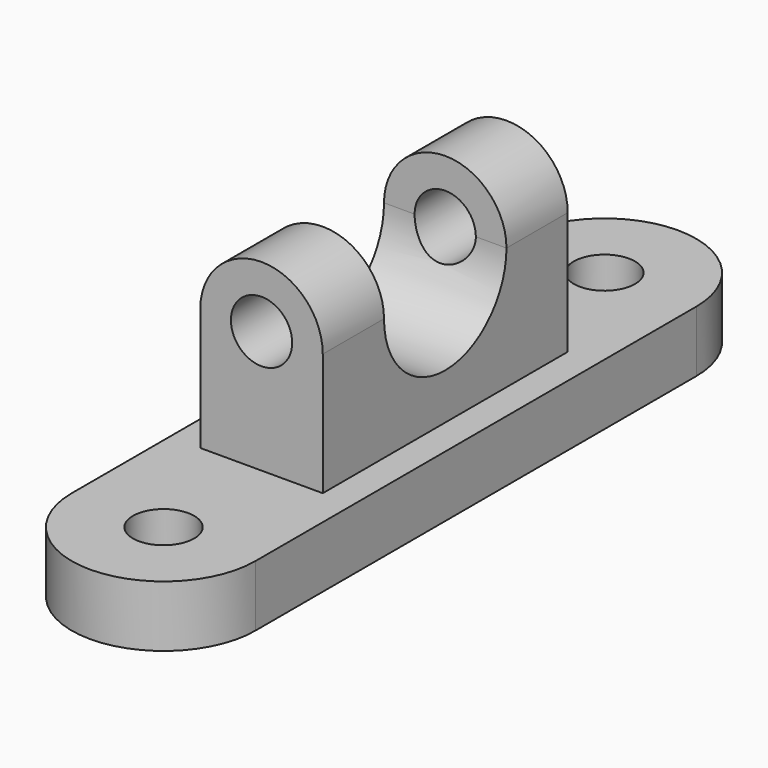
from build123d import *

# Parameters (mm, degrees)
F0_R     = 12.7
F1_DEPTH = 25.4
F2_W     = 50.8
F2_H     = 127
F3_DEPTH = 50.8
F5_DEPTH = 127
F6_R     = 12.7
F7_DEPTH = 127
F8_W     = 63.5
F8_H     = 63.5
F9_DEPTH = 76.2


with BuildPart() as f1:
    # F0 (on Top) → F1 (new body)
    with BuildSketch(Plane.XY):
        with BuildLine():
            ThreePointArc((-38.1, -114.3), (0, -152.4), (38.1, -114.3))
            Line((38.1, -114.3), (38.1, 114.3))
            ThreePointArc((38.1, 114.3), (0, 152.4), (-38.1, 114.3))
            Line((-38.1, 114.3), (-38.1, -114.3))
        make_face()
        with Locations((0, -114.3)):
            Circle(F0_R, mode=Mode.SUBTRACT)
        with Locations((0, 114.3)):
            Circle(F0_R, mode=Mode.SUBTRACT)
    extrude(amount=F1_DEPTH)

    # F2 (on face) → F3 (join)
    with BuildSketch(Plane.XY.offset(25.4)):
        Rectangle(F2_W, F2_H)
    extrude(amount=F3_DEPTH)

    # F4 (on face) → F5 (join)
    with BuildSketch(Plane.XZ.offset(63.5)):
        with BuildLine():
            Line((-25.4, 76.2), (25.4, 76.2))
            ThreePointArc((25.4, 76.2), (0, 101.6), (-25.4, 76.2))
        make_face()
    extrude(amount=-F5_DEPTH)

    # F6 (on face) → F7 (cut)
    with BuildSketch(Plane.XZ.offset(63.5)):
        with Locations((0, 76.2)):
            Circle(F6_R)
    extrude(amount=-F7_DEPTH, mode=Mode.SUBTRACT)

    # F8 (on face) → F9 (cut)
    with BuildSketch(Plane.YZ.offset(25.4)):
        with BuildLine():
            Line((31.75, 76.2), (-31.75, 76.2))
            ThreePointArc((-31.75, 76.2), (0, 44.45), (31.75, 76.2))
        make_face()
        with Locations((0, 107.95)):
            Rectangle(F8_W, F8_H)
    extrude(amount=-F9_DEPTH, mode=Mode.SUBTRACT)


solid = f1.part
